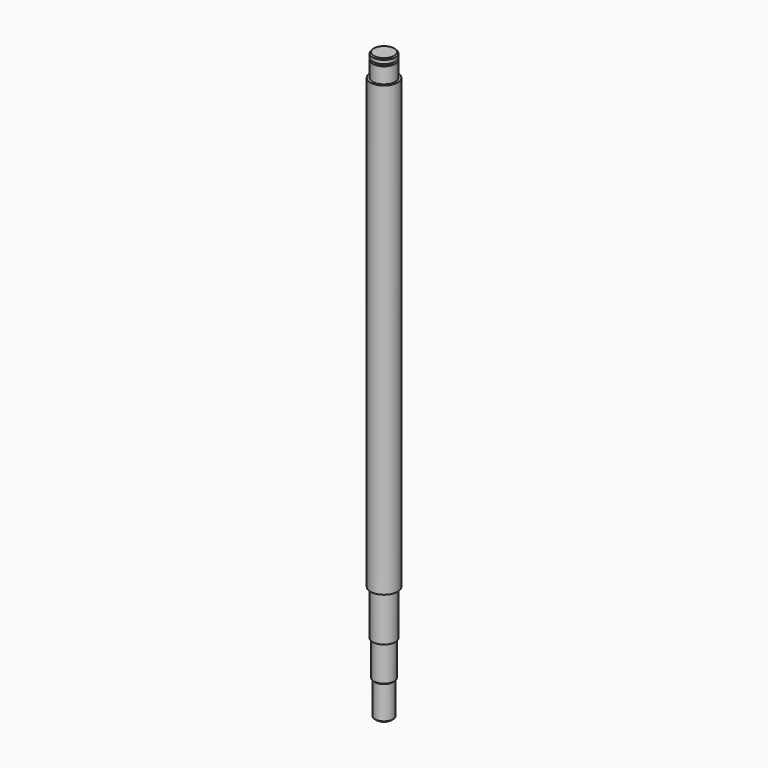
from build123d import *


with BuildPart() as f1:
    # F0 (on Front) → F1 (revolve)
    with BuildSketch(Plane.XZ):
        Polygon((0, 260), (0, 0), (3.5, 0), (4, 0.5), (4, 15), (4.5, 15.5), (4.5, 31), (5, 31), (5, 51), (6, 51), (6, 250), (5, 250), (5, 257), (3.8, 257), (3.8, 257.9), (5, 257.9), (5, 259.5), (4.5, 260), align=None)
    revolve(axis=Axis((0, 0, 142.919585), (0, 0, 1)))


solid = f1.part
